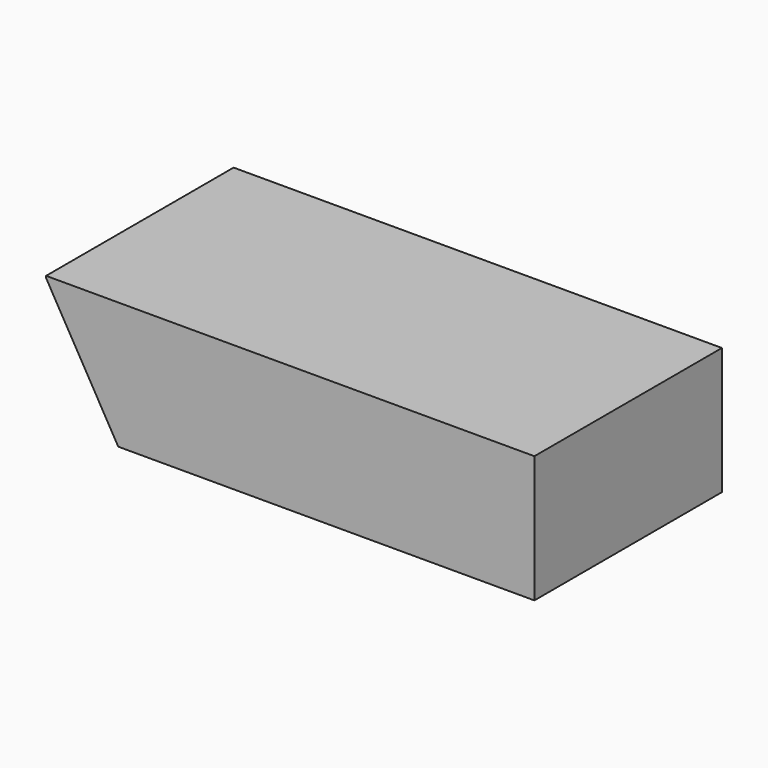
from build123d import *

# Parameters (mm, degrees)
BOX006_W               = 250
BOX006_H               = 120
BOX006_DEPTH           = 65
BOX006_PLACEMENT_ANGLE = 60
BOX007_W               = 250
BOX007_H               = 120
BOX007_DEPTH           = 65
CUT003_PLACEMENT_ANGLE = 180


with BuildPart() as box006:
    # Box006 → Box006 (new body)
    with BuildSketch(Plane.XY):
        with Locations((125, 60)):
            Rectangle(BOX006_W, BOX006_H)
    extrude(amount=BOX006_DEPTH)


with BuildPart() as box006_1:
    # Box006 placement: moved
    add(box006.part.moved(Location((187.927513, 0, 108.5))).rotate(Axis((187.927513, 0, 108.5), (0, 1, 0)), BOX006_PLACEMENT_ANGLE))


with BuildPart() as cut003:
    # Box007 → Box007 (new body)
    with BuildSketch(Plane.XY):
        with Locations((125, 60)):
            Rectangle(BOX007_W, BOX007_H)
    extrude(amount=BOX007_DEPTH)

    # Cut003: cut Box006
    add(box006_1.part, mode=Mode.SUBTRACT)


with BuildPart() as cut003_1:
    # Cut003 placement: moved
    add(cut003.part.moved(Location((469, 0, 64))).rotate(Axis((469, 0, 64), (0, 1, 0)), CUT003_PLACEMENT_ANGLE))


solid = cut003_1.part
